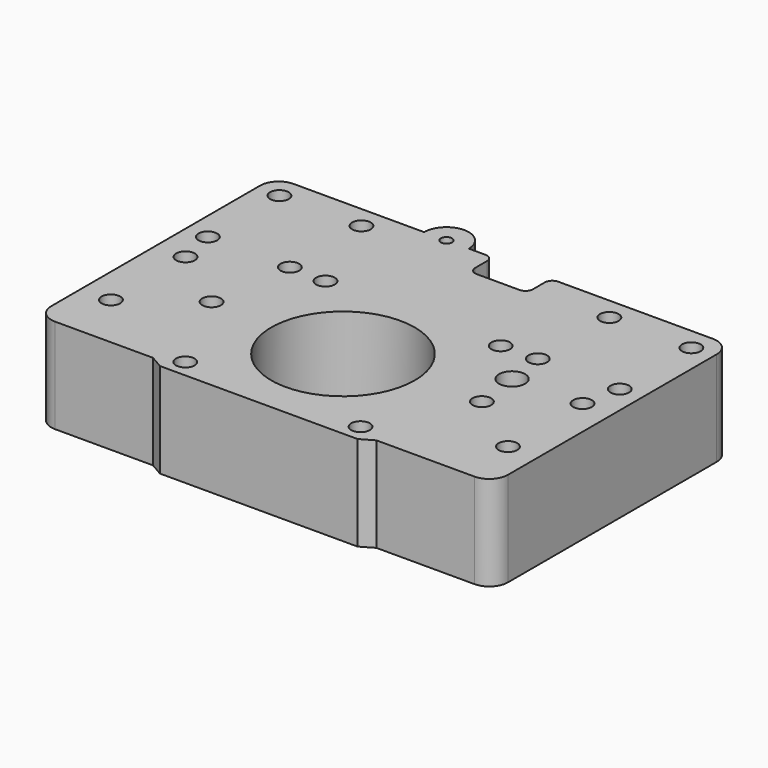
from build123d import *

# Parameters (mm, degrees)
F0_R     = 2.5
F0_R_2   = 19.25
F0_R_3   = 3.5
F0_R_4   = 1.5
F1_DEPTH = 25.4


with BuildPart() as f1:
    # F0 (on Top) → F1 (new body)
    with BuildSketch(Plane.XY):
        with BuildLine():
            Line((56.25, 38), (14.75, 38))
            ThreePointArc((14.75, 38), (13.335786, 37.414214), (12.75, 36))
            Line((12.75, 36), (12.75, 32))
            ThreePointArc((12.75, 32), (12.164214, 30.585786), (10.75, 30))
            Line((10.75, 30), (-0.75, 30))
            ThreePointArc((-0.75, 30), (-2.164214, 30.585786), (-2.75, 32))
            Line((-2.75, 32), (-2.75, 36))
            ThreePointArc((-2.75, 36), (-3.335786, 37.414214), (-4.75, 38))
            Line((-4.75, 38), (-9.25, 38))
            ThreePointArc((-9.25, 38), (-15.25, 44), (-21.25, 38))
            Line((-21.25, 38), (-56.25, 38))
            ThreePointArc((-56.25, 38), (-59.785534, 36.535534), (-61.25, 33))
            Line((-61.25, 33), (-61.25, -37))
            ThreePointArc((-61.25, -37), (-59.785534, -40.535534), (-56.25, -42))
            Line((-56.25, -42), (-29.964102, -42))
            Line((-29.964102, -42), (-26.5, -44))
            Line((-26.5, -44), (26.5, -44))
            Line((26.5, -44), (29.964101, -42))
            Line((29.964101, -42), (56.25, -42))
            ThreePointArc((56.25, -42), (59.785534, -40.535534), (61.25, -37))
            Line((61.25, -37), (61.25, 33))
            ThreePointArc((61.25, 33), (59.785534, 36.535534), (56.25, 38))
        make_face()
        with Locations((-53.25, -27)):
            Circle(F0_R, mode=Mode.SUBTRACT)
        with Locations((-23.5, -39.25)):
            Circle(F0_R, mode=Mode.SUBTRACT)
        with Locations((-36.25, -14.5)):
            Circle(F0_R, mode=Mode.SUBTRACT)
        with Locations((-53.25, -2)):
            Circle(F0_R, mode=Mode.SUBTRACT)
        with Locations((23.5, -39.25)):
            Circle(F0_R, mode=Mode.SUBTRACT)
        with Locations((53.25, -27)):
            Circle(F0_R, mode=Mode.SUBTRACT)
        with Locations((0, -15.75)):
            Circle(F0_R_2, mode=Mode.SUBTRACT)
        with Locations((36.25, -14.5)):
            Circle(F0_R, mode=Mode.SUBTRACT)
        with Locations((34.75, -2.5)):
            Circle(F0_R_3, mode=Mode.SUBTRACT)
        with Locations((53.25, -2)):
            Circle(F0_R, mode=Mode.SUBTRACT)
        with Locations((-55.25, 8)):
            Circle(F0_R, mode=Mode.SUBTRACT)
        with Locations((-33.25, 8)):
            Circle(F0_R, mode=Mode.SUBTRACT)
        with Locations((-23.5, 7.75)):
            Circle(F0_R, mode=Mode.SUBTRACT)
        with Locations((-55.25, 32)):
            Circle(F0_R, mode=Mode.SUBTRACT)
        with Locations((-33.25, 32)):
            Circle(F0_R, mode=Mode.SUBTRACT)
        with Locations((-15.25, 38)):
            Circle(F0_R_4, mode=Mode.SUBTRACT)
        with Locations((23.5, 7.75)):
            Circle(F0_R, mode=Mode.SUBTRACT)
        with Locations((33.25, 8)):
            Circle(F0_R, mode=Mode.SUBTRACT)
        with Locations((55.25, 8)):
            Circle(F0_R, mode=Mode.SUBTRACT)
        with Locations((33.25, 32)):
            Circle(F0_R, mode=Mode.SUBTRACT)
        with Locations((55.25, 32)):
            Circle(F0_R, mode=Mode.SUBTRACT)
    extrude(amount=F1_DEPTH)


solid = f1.part
